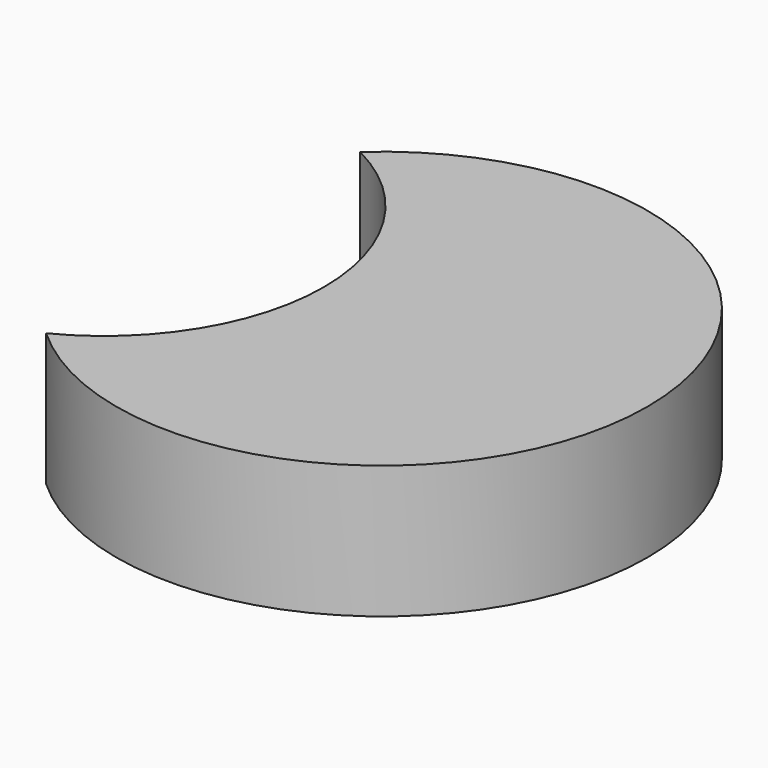
from build123d import *

# Parameters (mm, degrees)
F0_R     = 50.8
F1_DEPTH = 25.4
F3_DEPTH = 25.4


with BuildPart() as f1:
    # F0 (on Top) → F1 (new body)
    with BuildSketch(Plane.XY):
        Circle(F0_R)
    extrude(amount=F1_DEPTH)

    # F2 (on face) → F3 (cut)
    with BuildSketch(Plane.XY.offset(25.4)):
        with BuildLine():
            ThreePointArc((-34.205157, -37.558584), (-50.8, 0), (-34.205157, 37.558584))
            ThreePointArc((-34.205157, 37.558584), (-95.312392, 0), (-34.205157, -37.558584))
        make_face()
        with BuildLine():
            ThreePointArc((-34.205157, -37.558584), (-17.352956, -22.042881), (-11.120374, 0))
            ThreePointArc((-11.120374, 0), (-17.352956, 22.042881), (-34.205157, 37.558584))
            ThreePointArc((-34.205157, 37.558584), (-50.8, 0), (-34.205157, -37.558584))
        make_face()
    extrude(amount=-F3_DEPTH, mode=Mode.SUBTRACT)


solid = f1.part
